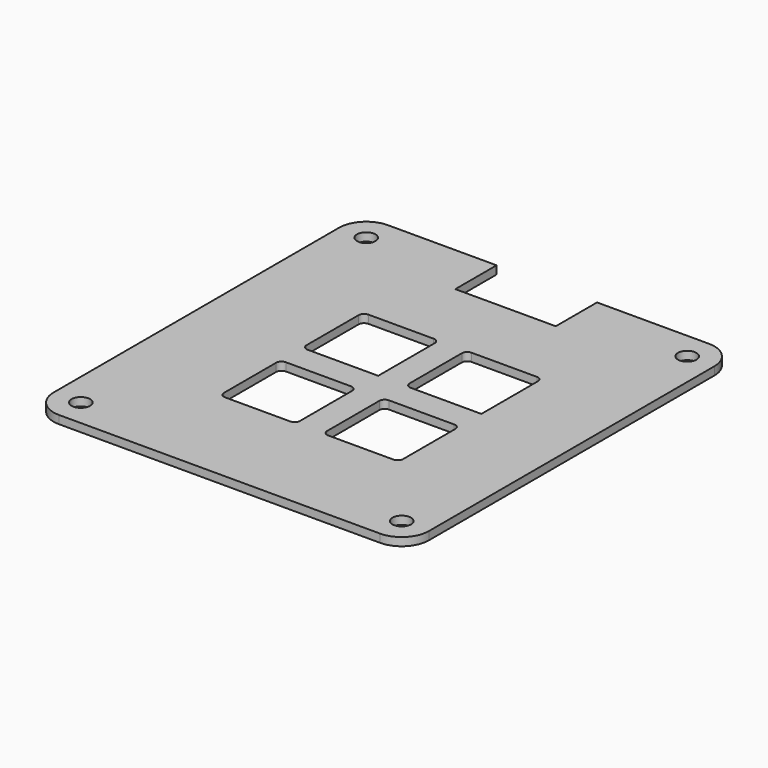
from build123d import *

# Parameters (mm, degrees)
SKETCH_W      = 69.1
SKETCH_H      = 75.7
PAD_DEPTH     = 1.5
FILLET_R      = 5
SKETCH001_R   = 1.7
HOLE_DEPTH    = 25
SKETCH002_W   = 14
SKETCH002_H   = 14
SKETCH002_W_2 = 18.5
SKETCH002_H_2 = 9.5
POCKET_DEPTH  = 5
FILLET001_R   = 1


with BuildPart() as part:
    # Sketch → Pad (new body)
    with BuildSketch(Plane.XY):
        with Locations((34.55, 37.85)):
            Rectangle(SKETCH_W, SKETCH_H)
    extrude(amount=PAD_DEPTH)

    # Fillet
    fillet_edges = [part.edges().sort_by_distance(p)[0] for p in [
        (0, 0, 0.75),
        (69.1, 0, 0.75),
        (69.1, 75.7, 0.75),
        (0, 75.7, 0.75),
    ]]
    fillet(fillet_edges, radius=FILLET_R)

    # Sketch001 (on Face5 of Fillet) → Hole (cut)
    with BuildSketch(Plane.XY.offset(1.5)):
        with Locations((5, 5)):
            Circle(SKETCH001_R)
        with Locations((64.1, 5)):
            Circle(SKETCH001_R)
        with Locations((5, 70.7)):
            Circle(SKETCH001_R)
        with Locations((64.1, 70.7)):
            Circle(SKETCH001_R)
    extrude(amount=-HOLE_DEPTH, mode=Mode.SUBTRACT)

    # Sketch002 (on Face5 of Hole) → Pocket (cut)
    with BuildSketch(Plane.XY.offset(1.5)):
        with Locations((26.2, 26.2)):
            Rectangle(SKETCH002_W, SKETCH002_H)
        with Locations((45.2, 26.2)):
            Rectangle(SKETCH002_W, SKETCH002_H)
        with Locations((26.2, 45.2)):
            Rectangle(SKETCH002_W, SKETCH002_H)
        with Locations((45.2, 45.2)):
            Rectangle(SKETCH002_W, SKETCH002_H)
        with Locations((34.25, 70.95)):
            Rectangle(SKETCH002_W_2, SKETCH002_H_2)
    extrude(amount=-POCKET_DEPTH, mode=Mode.SUBTRACT)

    # Fillet001
    fillet001_edges = [part.edges().sort_by_distance(p)[0] for p in [
        (19.2, 52.2, 0.75),
        (38.2, 52.2, 0.75),
        (38.2, 33.2, 0.75),
        (19.2, 33.2, 0.75),
        (38.2, 38.2, 0.75),
        (38.2, 19.2, 0.75),
        (19.2, 19.2, 0.75),
        (52.2, 19.2, 0.75),
        (33.2, 19.2, 0.75),
        (19.2, 38.2, 0.75),
        (52.2, 52.2, 0.75),
        (52.2, 33.2, 0.75),
        (33.2, 33.2, 0.75),
        (33.2, 52.2, 0.75),
    ]]
    fillet(fillet001_edges, radius=FILLET001_R)


solid = part.part
